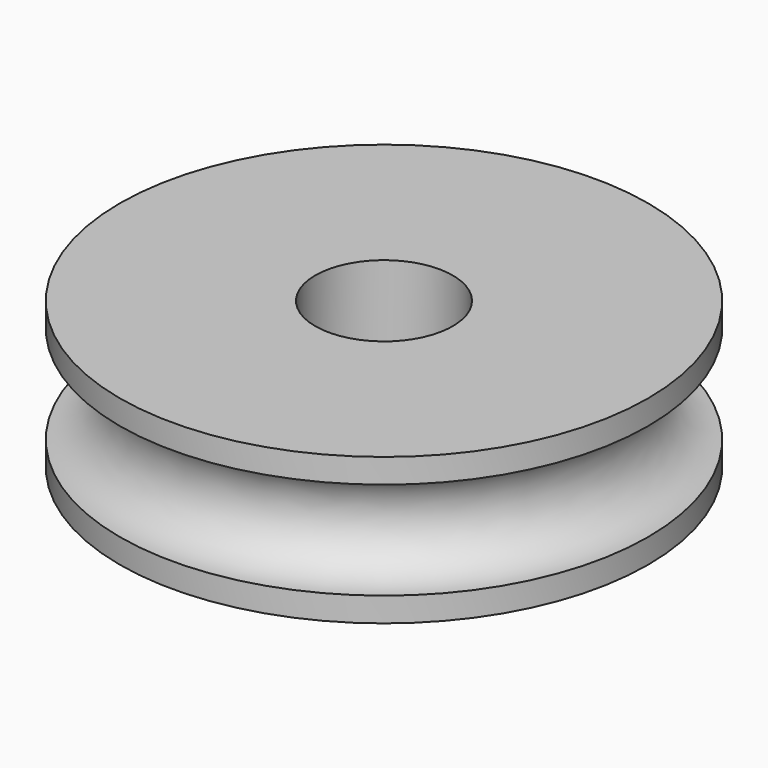
from build123d import *

# Parameters (mm, degrees)
F0_W = 12
F0_H = 1.5


with BuildPart() as f1:
    # F0 (on Front) → F1 (revolve)
    with BuildSketch(Plane.XZ):
        with Locations((7.663866, 6.75)):
            Rectangle(F0_W, F0_H)
        with BuildLine():
            ThreePointArc((1.663866, 6), (4.663866, 3), (1.663866, 0))
            Line((1.663866, 0), (13.663866, 0))
            Line((13.663866, 0), (13.663866, 6))
            Line((13.663866, 6), (1.663866, 6))
        make_face()
        with Locations((7.663866, -0.75)):
            Rectangle(F0_W, F0_H)
    revolve(axis=Axis((17.887095, 0, 3.662785), (0, 0, -1)))


solid = f1.part
